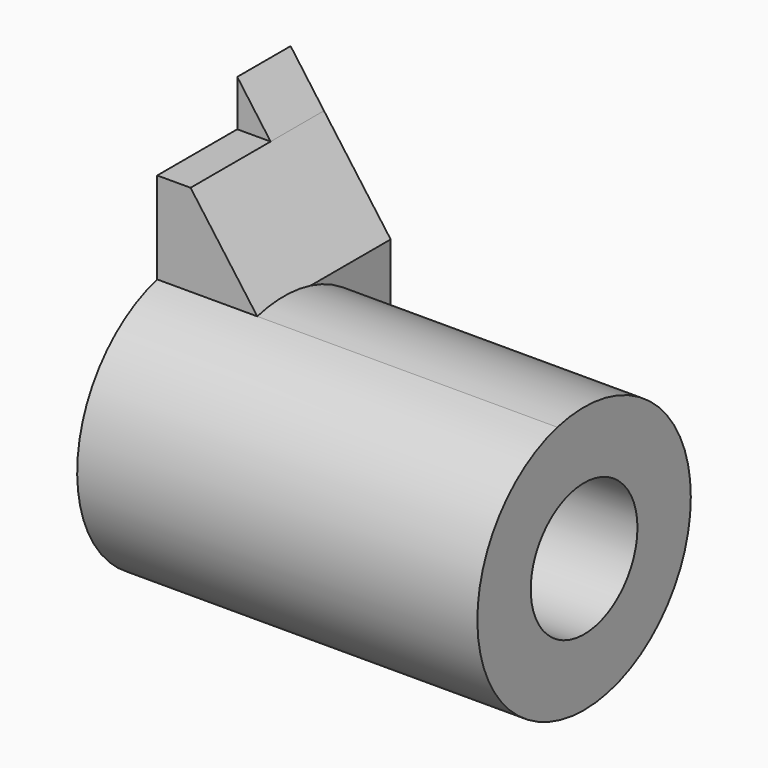
from build123d import *

# Parameters (mm, degrees)
F0_W     = 76.2
F0_H     = 76.2
F1_DEPTH = 50.8
F2_R     = 12.7
F3_DEPTH = 76.201
F4_DEPTH = 57.15
F6_DEPTH = 31.751
F8_DEPTH = 12.701


with BuildPart() as f1:
    # F0 (on Front) → F1 (new body)
    with BuildSketch(Plane.XZ):
        with Locations((38.1, 38.1)):
            Rectangle(F0_W, F0_H)
    extrude(amount=F1_DEPTH)

    # F2 (on face) → F3 (cut, through all)
    with BuildSketch(Plane.YZ.offset(76.2)):
        with BuildLine():
            Line((-12.7, 67.4217641354), (-12.7, 76.2))
            Line((-12.7, 76.2), (-50.8, 76.2))
            Line((-50.8, 76.2), (-50.8, 25.4))
            ThreePointArc((-50.8, 25.4), (-45.4804631421, 40.9542598667), (-31.75, 49.9934442484))
            Line((-31.75, 49.9934442484), (-31.75, 67.4217641354))
            Line((-31.75, 67.4217641354), (-12.7, 67.4217641354))
        make_face()
        with BuildLine():
            Line((-50.8, 0), (-25.4, 0))
            ThreePointArc((-25.4, 0), (-43.3605122421, 7.4394877579), (-50.8, 25.4))
            Line((-50.8, 25.4), (-50.8, 0))
        make_face()
        with BuildLine():
            Line((0, 0), (0, 25.4))
            ThreePointArc((0, 25.4), (-7.4394877579, 7.4394877579), (-25.4, 0))
            Line((-25.4, 0), (0, 0))
        make_face()
        with Locations((-25.4, 25.4)):
            Circle(F2_R)
    extrude(amount=-F3_DEPTH, mode=Mode.SUBTRACT)

    # F2 (on face) → F4 (cut)
    with BuildSketch(Plane.YZ.offset(76.2)):
        with BuildLine():
            Line((0, 25.4), (0, 76.2))
            Line((0, 76.2), (-12.7, 76.2))
            Line((-12.7, 76.2), (-12.7, 67.4217641354))
            Line((-12.7, 67.4217641354), (-31.75, 67.4217641354))
            Line((-31.75, 67.4217641354), (-31.75, 49.9934442484))
            ThreePointArc((-31.75, 49.9934442484), (-9.8457401333, 45.4804631421), (0, 25.4))
        make_face()
    extrude(amount=-F4_DEPTH, mode=Mode.SUBTRACT)

    # F5 (on face) → F6 (cut, through all)
    with BuildSketch(Plane.XZ.offset(31.75)):
        Polygon((6.35, 67.4217641354), (19.05, 49.9934442484), (19.05, 67.4217641354), align=None)
    extrude(amount=-F6_DEPTH, mode=Mode.SUBTRACT)

    # F7 (on face) → F8 (cut, through all)
    with BuildSketch(Plane.XZ.offset(12.7)):
        Polygon((0, 76.2), (6.35, 67.4217641354), (19.05, 67.4217641354), (19.05, 76.2), align=None)
    extrude(amount=-F8_DEPTH, mode=Mode.SUBTRACT)


solid = f1.part
